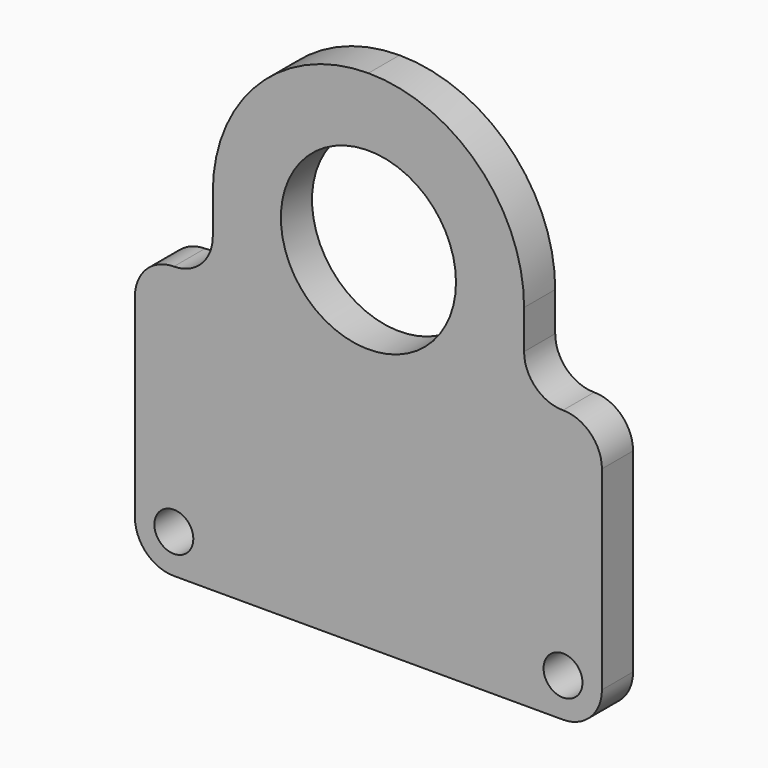
from build123d import *

# Parameters (mm, degrees)
F0_R     = 14.2875
F0_R_2   = 3.175
F1_DEPTH = 6.35


with BuildPart() as f1:
    # F0 (on Front) → F1 (new body)
    with BuildSketch(Plane.XZ):
        with BuildLine():
            Line((-6.35, -63.5), (0, -63.5))
            Line((0, -63.5), (50.8, -63.5))
            Line((50.8, -63.5), (57.15, -63.5))
            ThreePointArc((57.15, -63.5), (61.640128, -61.640128), (63.5, -57.15))
            Line((63.5, -57.15), (63.5, -44.45))
            ThreePointArc((63.5, -44.45), (61.640128, -39.959872), (57.15, -38.1))
            ThreePointArc((57.15, -38.1), (52.659872, -36.240128), (50.8, -31.75))
            Line((50.8, -31.75), (50.8, -25.4))
            ThreePointArc((50.8, -25.4), (43.360512, -7.439488), (25.4, 0))
            ThreePointArc((25.4, 0), (7.439488, -7.439488), (0, -25.4))
            Line((0, -25.4), (0, -31.75))
            ThreePointArc((0, -31.75), (-1.859872, -36.240128), (-6.35, -38.1))
            ThreePointArc((-6.35, -38.1), (-10.840128, -39.959872), (-12.7, -44.45))
            Line((-12.7, -44.45), (-12.7, -57.15))
            ThreePointArc((-12.7, -57.15), (-10.840128, -61.640128), (-6.35, -63.5))
        make_face()
        with Locations((25.4, -25.4)):
            Circle(F0_R, mode=Mode.SUBTRACT)
        with BuildLine():
            Line((50.8, -63.5), (0, -63.5))
            Line((0, -63.5), (-6.35, -63.5))
            ThreePointArc((-6.35, -63.5), (-10.840128, -61.640128), (-12.7, -57.15))
            Line((-12.7, -57.15), (-12.7, -76.2))
            ThreePointArc((-12.7, -76.2), (-10.840128, -80.690128), (-6.35, -82.55))
            Line((-6.35, -82.55), (57.15, -82.55))
            ThreePointArc((57.15, -82.55), (61.640128, -80.690128), (63.5, -76.2))
            Line((63.5, -76.2), (63.5, -57.15))
            ThreePointArc((63.5, -57.15), (61.640128, -61.640128), (57.15, -63.5))
            Line((57.15, -63.5), (50.8, -63.5))
        make_face()
        with Locations((-6.35, -76.2)):
            Circle(F0_R_2, mode=Mode.SUBTRACT)
        with Locations((57.15, -76.2)):
            Circle(F0_R_2, mode=Mode.SUBTRACT)
    extrude(amount=F1_DEPTH)


solid = f1.part
